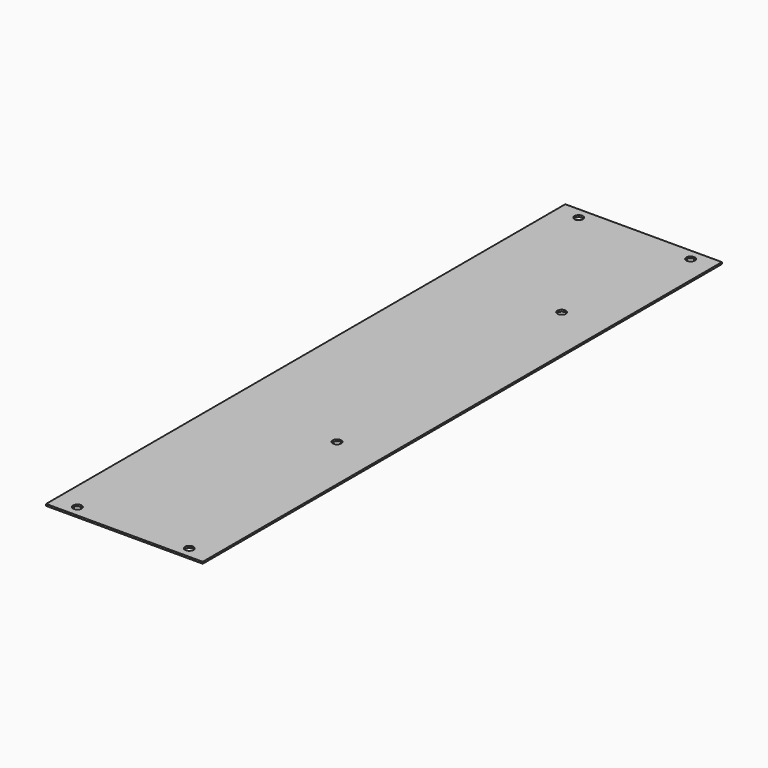
from build123d import *

# Parameters (mm, degrees)
F0_W     = 70
F0_H     = 290
F0_R     = 1.9
F1_DEPTH = 0.8


with BuildPart() as f1:
    # F0 (on Top) → F1 (new body)
    with BuildSketch(Plane.XY):
        with Locations((-72.727033, -42.066307)):
            Rectangle(F0_W, F0_H)
        with Locations((-97.727033, -182.066307)):
            Circle(F0_R, mode=Mode.SUBTRACT)
        with Locations((-47.727033, -182.066307)):
            Circle(F0_R, mode=Mode.SUBTRACT)
        with Locations((-57.727033, -87.066307)):
            Circle(F0_R, mode=Mode.SUBTRACT)
        with Locations((-97.727033, 97.933693)):
            Circle(F0_R, mode=Mode.SUBTRACT)
        with Locations((-57.727033, 38.433693)):
            Circle(F0_R, mode=Mode.SUBTRACT)
        with Locations((-47.727033, 97.933693)):
            Circle(F0_R, mode=Mode.SUBTRACT)
    extrude(amount=F1_DEPTH)


solid = f1.part
